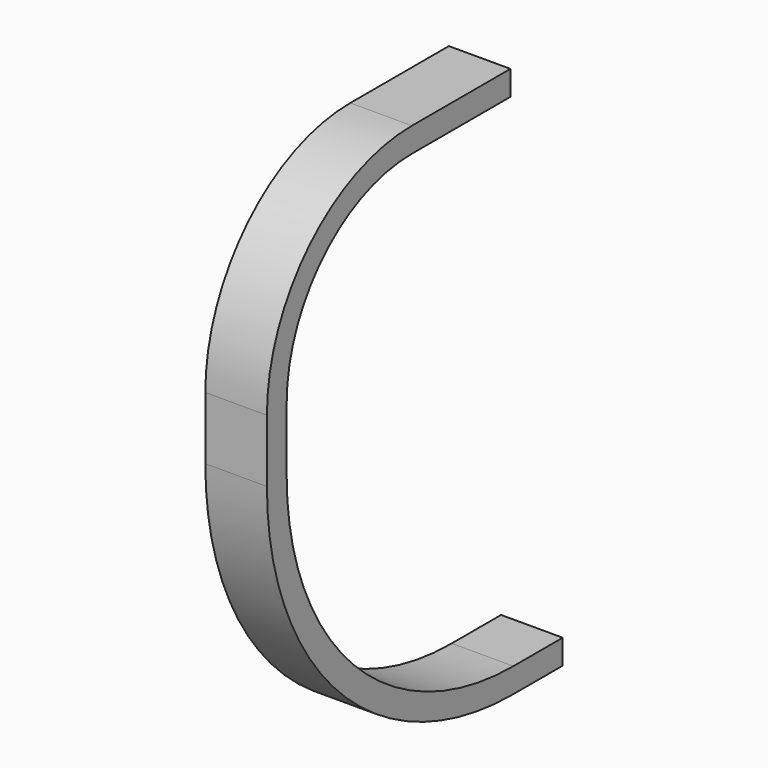
from build123d import *

# Parameters (mm, degrees)
F1_DEPTH = 5


with BuildPart() as f1:
    # F0 (on Right) → F1 (new body)
    with BuildSketch(Plane.YZ):
        with BuildLine():
            Line((9.721234, -5.292803), (9.721234, -0.202803))
            ThreePointArc((9.721234, -0.202803), (13.440977, 8.777453), (22.421234, 12.497197))
            Line((22.421234, 12.497197), (32.421234, 12.497197))
            Line((32.421234, 12.497197), (32.421234, 14.497197))
            Line((32.421234, 14.497197), (22.421234, 14.497197))
            ThreePointArc((22.421234, 14.497197), (12.026764, 10.191667), (7.721234, -0.202803))
            Line((7.721234, -0.202803), (7.721234, -5.292803))
            ThreePointArc((7.721234, -5.292803), (15.043564, -22.970472), (32.721234, -30.292803))
            Line((32.721234, -30.292803), (37.721234, -30.292803))
            Line((37.721234, -30.292803), (37.721234, -28.292803))
            Line((37.721234, -28.292803), (32.721234, -28.292803))
            ThreePointArc((32.721234, -28.292803), (16.457778, -21.556259), (9.721234, -5.292803))
        make_face()
    extrude(amount=F1_DEPTH)


solid = f1.part
